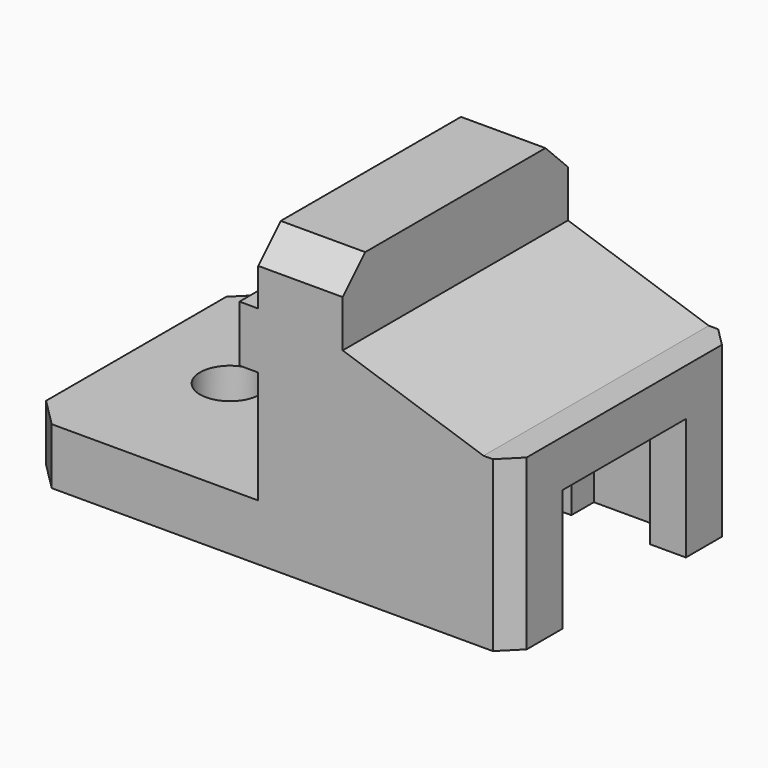
from build123d import *

# Parameters (mm, degrees)
CYLINDER010_R     = 3.2
CYLINDER010_DEPTH = 10
BOX003_W          = 21.4
BOX003_H          = 16.4
BOX003_DEPTH      = 13
BOX009_W          = 8.4
BOX009_H          = 22.4
BOX009_DEPTH      = 13
BOX006_W          = 22
BOX006_H          = 30
BOX006_DEPTH      = 18
BOX005_W          = 30
BOX005_H          = 30
BOX005_DEPTH      = 6
BOX010_W          = 3
BOX010_H          = 10
BOX010_DEPTH      = 6
BOX011_W          = 3
BOX011_H          = 10
BOX011_DEPTH      = 6
BOX004_W          = 9
BOX004_H          = 30
BOX004_DEPTH      = 25
CHAMFER013_SIZE   = 3
CHAMFER014_SIZE2  = 5
CHAMFER014_SIZE   = 15
CHAMFER020_SIZE   = 2
CHAMFER021_SIZE   = 3


with BuildPart() as cylinder010:
    # Cylinder010 → Cylinder010 (new body)
    with BuildSketch(Plane(origin=(-34, 0, -10), x_dir=(1, 0, 0), z_dir=(0, 0, 1))):
        Circle(CYLINDER010_R)
    extrude(amount=CYLINDER010_DEPTH)


with BuildPart() as cube003:
    # Box003 → Box003 (new body)
    with BuildSketch(Plane(origin=(-10.7, -8.2, -6), x_dir=(1, 0, 0), z_dir=(0, 0, 1))):
        with Locations((10.7, 8.2)):
            Rectangle(BOX003_W, BOX003_H)
    extrude(amount=BOX003_DEPTH)


with BuildPart() as fusion020006007016:
    # Box009 → Box009 (new body)
    with BuildSketch(Plane(origin=(-4.2, -11.2, -6), x_dir=(1, 0, 0), z_dir=(0, 0, 1))):
        with Locations((4.2, 11.2)):
            Rectangle(BOX009_W, BOX009_H)
    extrude(amount=BOX009_DEPTH)

    # Fusion020006007016: union Cube003
    add(cube003.part)


with BuildPart() as cube006:
    # Box006 → Box006 (new body)
    with BuildSketch(Plane(origin=(-14, -15, -6), x_dir=(1, 0, 0), z_dir=(0, 0, 1))):
        with Locations((11, 15)):
            Rectangle(BOX006_W, BOX006_H)
    extrude(amount=BOX006_DEPTH)


with BuildPart() as cube005:
    # Box005 → Box005 (new body)
    with BuildSketch(Plane(origin=(-44, -15, -6), x_dir=(1, 0, 0), z_dir=(0, 0, 1))):
        with Locations((15, 15)):
            Rectangle(BOX005_W, BOX005_H)
    extrude(amount=BOX005_DEPTH)


with BuildPart() as cube010:
    # Box010 → Box010 (new body)
    with BuildSketch(Plane(origin=(-21, -15, 12), x_dir=(1, 0, 0), z_dir=(0, 0, 1))):
        with Locations((1.5, 5)):
            Rectangle(BOX010_W, BOX010_H)
    extrude(amount=BOX010_DEPTH)


with BuildPart() as obj1:
    # Box011 → Box011 (new body)
    with BuildSketch(Plane(origin=(-21, 5, 12), x_dir=(1, 0, 0), z_dir=(0, 0, 1))):
        with Locations((1.5, 5)):
            Rectangle(BOX011_W, BOX011_H)
    extrude(amount=BOX011_DEPTH)

    # Fusion041004009: union Cube010
    add(cube010.part)


with BuildPart() as cut009010:
    # Box004 → Box004 (new body)
    with BuildSketch(Plane(origin=(-19, -15, 0), x_dir=(1, 0, 0), z_dir=(0, 0, 1))):
        with Locations((4.5, 15)):
            Rectangle(BOX004_W, BOX004_H)
    extrude(amount=BOX004_DEPTH)

    # Chamfer013
    chamfer013_edges = [cut009010.edges().sort_by_distance(p)[0] for p in [
        (-14.5, -15, 25),
        (-14.5, 15, 25),
    ]]
    chamfer(chamfer013_edges, length=CHAMFER013_SIZE)

    # Fusion020006007008: union Cube006, Cube005, obj1
    add(cube006.part)
    add(cube005.part)
    add(obj1.part)

    # Chamfer014
    chamfer014_edges = [cut009010.edges().sort_by_distance(p)[0] for p in [
        (-10, 0, 12),
    ]]
    chamfer014_side = cut009010.faces().sort_by_distance((-1, 0, 12))[0]
    chamfer(chamfer014_edges, length=CHAMFER014_SIZE, length2=CHAMFER014_SIZE2, reference=chamfer014_side)

    # Cut009009: cut Fusion020006007016
    add(fusion020006007016.part, mode=Mode.SUBTRACT)

    # Chamfer020
    chamfer020_edges = [cut009010.edges().sort_by_distance(p)[0] for p in [
        (8, -15, 3),
        (8, 15, 3),
    ]]
    chamfer(chamfer020_edges, length=CHAMFER020_SIZE)

    # Chamfer021
    chamfer021_edges = [cut009010.edges().sort_by_distance(p)[0] for p in [
        (-44, -15, -3),
        (-44, 15, -3),
    ]]
    chamfer(chamfer021_edges, length=CHAMFER021_SIZE)

    # Cut009010: cut Cylinder010
    add(cylinder010.part, mode=Mode.SUBTRACT)


solid = cut009010.part
